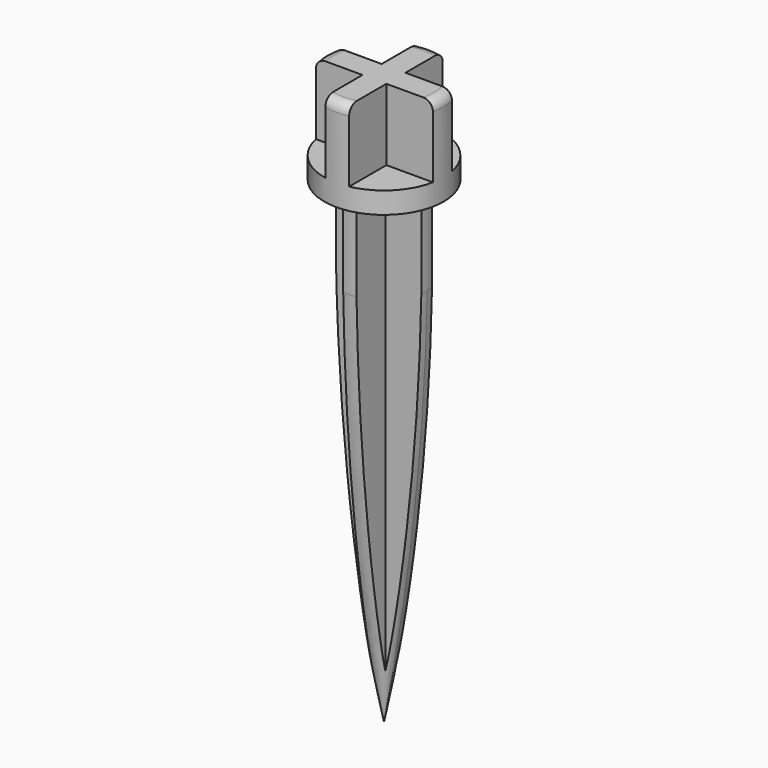
from build123d import *

# Parameters (mm, degrees)
F0_R      = 12.5
F1_DEPTH  = 17.5
F2_R      = 2
F3_R      = 12.5
F4_DEPTH  = 2
F5_R      = 9.05
F6_DEPTH  = 100
F8_ANGLE  = 180
F10_DEPTH = 100.001
F12_DEPTH = 15


with BuildPart() as f1:
    # F0 (on Top) → F1 (new body)
    with BuildSketch(Plane.XY):
        Circle(F0_R)
    extrude(amount=F1_DEPTH)

    # F2
    f2_edges = [f1.edges().sort_by_distance(p)[0] for p in [
        (-12.5, 0, 17.5),
    ]]
    fillet(f2_edges, radius=F2_R)

    # F3 (on face) → F4 (join)
    with BuildSketch(Plane(origin=(0, 0, 0), x_dir=(1, 0, 0), z_dir=(0, 0, -1))):
        Circle(F3_R)
    extrude(amount=F4_DEPTH)

    # F5 (on face) → F6 (join)
    with BuildSketch(Plane(origin=(0, 0, -2), x_dir=(1, 0, 0), z_dir=(0, 0, -1))):
        Circle(F5_R)
    extrude(amount=F6_DEPTH)

    # F7 (on Front) → F8 (revolve, cut)
    with BuildSketch(Plane.XZ):
        with BuildLine():
            Line((-9.05, -19.527881), (-9.05, -2))
            ThreePointArc((-9.05, -2), (-9.133447, -10.763941), (-9.05, -19.527881))
        make_face()
        with BuildLine():
            Line((9.05, -2), (9.05, -19.527881))
            ThreePointArc((9.05, -19.527881), (9.133447, -10.763941), (9.05, -2))
        make_face()
        with BuildLine():
            ThreePointArc((9.05, -19.527881), (6.387127, -60.968279), (0, -102))
            Line((0, -102), (9.05, -102))
            Line((9.05, -102), (9.05, -19.527881))
        make_face()
        with BuildLine():
            ThreePointArc((0, -102), (-6.387127, -60.968279), (-9.05, -19.527881))
            Line((-9.05, -19.527881), (-9.05, -102))
            Line((-9.05, -102), (0, -102))
        make_face()
    revolve(axis=Axis((0, 0, -52), (0, 0, -1)), revolution_arc=F8_ANGLE, mode=Mode.SUBTRACT)

    # F9 (on face) → F10 (cut, through all)
    with BuildSketch(Plane(origin=(0, 0, -2), x_dir=(1, 0, 0), z_dir=(0, 0, -1))):
        Polygon((-1.395766, -12.419861), (-1.395766, -7.419861), (-1.395766, -1.395766), (-7.419861, -1.395766), (-12.419861, -1.395766), align=None)
        Polygon((-12.419861, 1.395766), (-7.419861, 1.395766), (-1.395766, 1.395766), (-1.395766, 7.419861), (-1.395766, 12.419861), align=None)
        Polygon((1.395766, 12.419861), (1.395766, 7.419861), (1.395766, 1.395766), (7.419861, 1.395766), (12.419861, 1.395766), align=None)
        Polygon((12.419861, -1.395766), (7.419861, -1.395766), (1.395766, -1.395766), (1.395766, -7.419861), (1.395766, -12.419861), align=None)
    extrude(amount=F10_DEPTH, mode=Mode.SUBTRACT)

    # F11 (on face) → F12 (cut)
    with BuildSketch(Plane.XY.offset(17.5)):
        with BuildLine():
            Line((-2.5, -2.5), (-10.198039, -2.5))
            ThreePointArc((-10.198039, -2.5), (-7.424621, -7.424621), (-2.5, -10.198039))
            Line((-2.5, -10.198039), (-2.5, -2.5))
        make_face()
        with BuildLine():
            ThreePointArc((-2.5, -10.198039), (-7.424621, -7.424621), (-10.198039, -2.5))
            Line((-10.198039, -2.5), (-12.067753, -2.5))
            Line((-12.067753, -2.5), (-13.370921, -2.5))
            ThreePointArc((-13.370921, -2.5), (-9.618512, -9.618512), (-2.5, -13.370921))
            Line((-2.5, -13.370921), (-2.5, -10.63198))
            Line((-2.5, -10.63198), (-2.5, -10.198039))
        make_face()
        with BuildLine():
            ThreePointArc((10.198039, 2.5), (7.424621, 7.424621), (2.5, 10.198039))
            Line((2.5, 10.198039), (2.5, 2.5))
            Line((2.5, 2.5), (10.198039, 2.5))
        make_face()
        with BuildLine():
            Line((2.5, 10.63198), (2.5, 10.198039))
            ThreePointArc((2.5, 10.198039), (7.424621, 7.424621), (10.198039, 2.5))
            Line((10.198039, 2.5), (10.63198, 2.5))
            Line((10.63198, 2.5), (13.370921, 2.5))
            ThreePointArc((13.370921, 2.5), (9.618512, 9.618512), (2.5, 13.370921))
            Line((2.5, 13.370921), (2.5, 10.63198))
        make_face()
        with BuildLine():
            ThreePointArc((2.5, -10.198039), (7.424621, -7.424621), (10.198039, -2.5))
            Line((10.198039, -2.5), (2.5, -2.5))
            Line((2.5, -2.5), (2.5, -10.198039))
        make_face()
        with BuildLine():
            Line((10.63198, -2.5), (10.198039, -2.5))
            ThreePointArc((10.198039, -2.5), (7.424621, -7.424621), (2.5, -10.198039))
            Line((2.5, -10.198039), (2.5, -10.63198))
            Line((2.5, -10.63198), (2.5, -13.370921))
            ThreePointArc((2.5, -13.370921), (9.618512, -9.618512), (13.370921, -2.5))
            Line((13.370921, -2.5), (10.63198, -2.5))
        make_face()
        with BuildLine():
            Line((-2.5, 10.198039), (-2.5, 10.63198))
            Line((-2.5, 10.63198), (-2.5, 13.370921))
            ThreePointArc((-2.5, 13.370921), (-9.618512, 9.618512), (-13.370921, 2.5))
            Line((-13.370921, 2.5), (-10.63198, 2.5))
            Line((-10.63198, 2.5), (-10.198039, 2.5))
            ThreePointArc((-10.198039, 2.5), (-7.424621, 7.424621), (-2.5, 10.198039))
        make_face()
        with BuildLine():
            Line((-2.5, 2.5), (-2.5, 10.198039))
            ThreePointArc((-2.5, 10.198039), (-7.424621, 7.424621), (-10.198039, 2.5))
            Line((-10.198039, 2.5), (-2.5, 2.5))
        make_face()
        with BuildLine():
            ThreePointArc((-2.5, -10.198039), (-7.424621, -7.424621), (-10.198039, -2.5))
            Line((-10.198039, -2.5), (-12.067753, -2.5))
            Line((-12.067753, -2.5), (-13.370921, -2.5))
            ThreePointArc((-13.370921, -2.5), (-9.618512, -9.618512), (-2.5, -13.370921))
            Line((-2.5, -13.370921), (-2.5, -10.63198))
            Line((-2.5, -10.63198), (-2.5, -10.198039))
        make_face()
    extrude(amount=-F12_DEPTH, mode=Mode.SUBTRACT)


solid = f1.part
